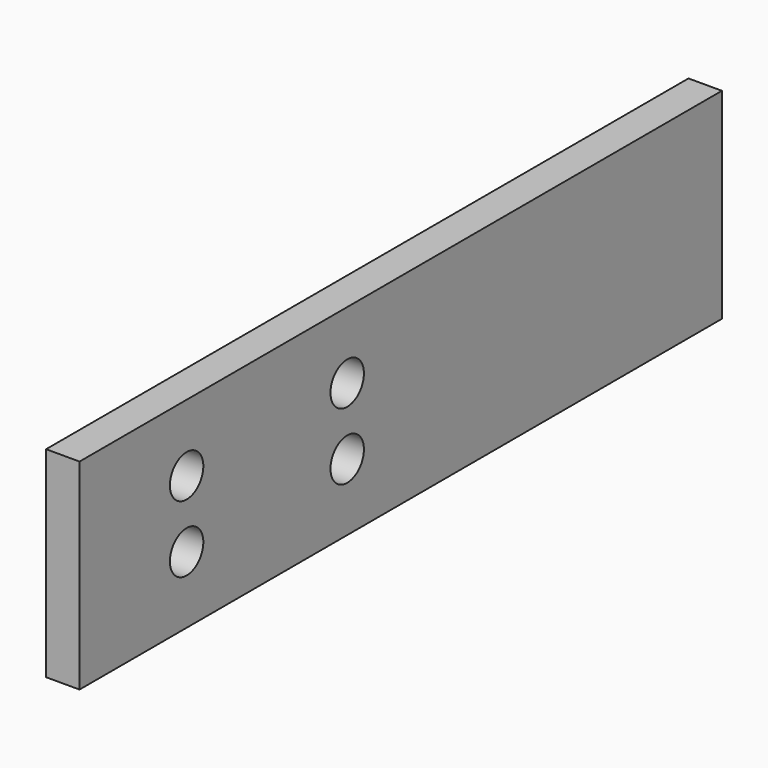
from build123d import *

# Parameters (mm, degrees)
F0_W     = 3.175
F0_H     = 19.05
F1_DEPTH = 38.1
F4_R     = 1.984375
F6_DEPTH = 3.175
F5_R     = 1.984375
F7_DEPTH = 3.175
F3_R     = 1.984375
F8_DEPTH = 3.175
F2_R     = 1.984375
F9_DEPTH = 3.175


with BuildPart() as f1:
    # F0 (on Front) → F1 (new body, symmetric)
    with BuildSketch(Plane.XZ):
        Rectangle(F0_W, F0_H)
    extrude(amount=F1_DEPTH, both=True)

    # F4 (on face) → F6 (cut)
    with BuildSketch(Plane(origin=(-1.5875, 0, 0), x_dir=(0, -1, 0), z_dir=(-1, 0, 0))):
        with Locations((6.35, 3.175)):
            Circle(F4_R)
    extrude(amount=-F6_DEPTH, mode=Mode.SUBTRACT)

    # F5 (on face) → F7 (cut)
    with BuildSketch(Plane(origin=(-1.5875, 0, 0), x_dir=(0, -1, 0), z_dir=(-1, 0, 0))):
        with Locations((6.35, -3.175)):
            Circle(F5_R)
    extrude(amount=-F7_DEPTH, mode=Mode.SUBTRACT)

    # F3 (on face) → F8 (cut)
    with BuildSketch(Plane(origin=(-1.5875, 0, 0), x_dir=(0, -1, 0), z_dir=(-1, 0, 0))):
        with Locations((25.4, 3.175)):
            Circle(F3_R)
    extrude(amount=-F8_DEPTH, mode=Mode.SUBTRACT)

    # F2 (on face) → F9 (cut)
    with BuildSketch(Plane(origin=(-1.5875, 0, 0), x_dir=(0, -1, 0), z_dir=(-1, 0, 0))):
        with Locations((25.4, -3.175)):
            Circle(F2_R)
    extrude(amount=-F9_DEPTH, mode=Mode.SUBTRACT)


solid = f1.part
